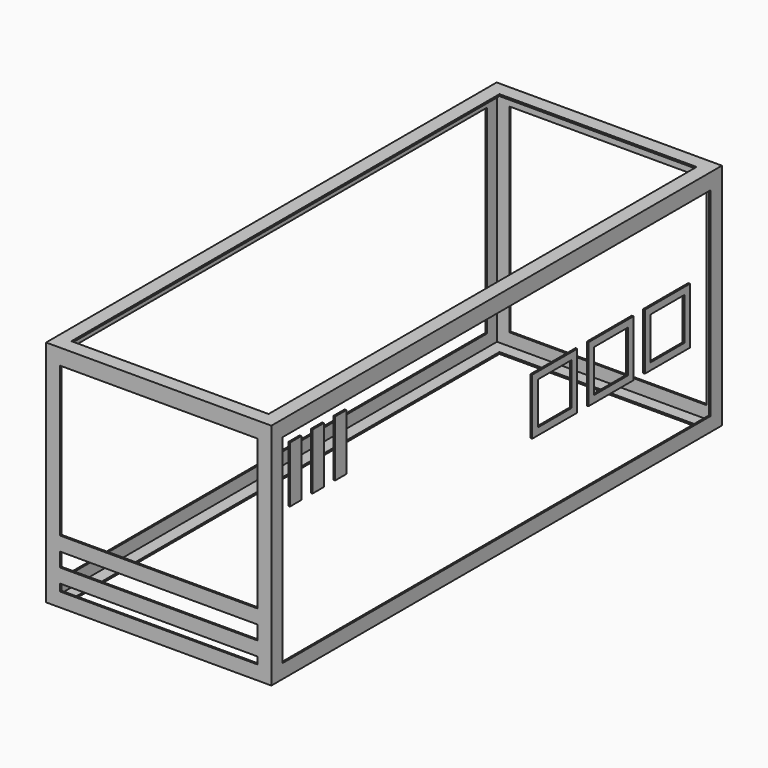
from build123d import *

# Parameters (mm, degrees)
F0_W      = 406.4
F0_H      = 1016
F0_W_2    = 355.6
F0_H_2    = 965.2
F1_DEPTH  = 3.175
F2_W      = 406.4
F2_H      = 1016
F2_W_2    = 400.05
F2_H_2    = 1009.65
F3_DEPTH  = 406.4
F4_W      = 965.2
F4_H      = 358.775
F5_DEPTH  = 406.401
F6_W      = 355.6
F6_H      = 358.775
F7_DEPTH  = 1016.001
F8_W      = 406.4
F8_H      = 1016
F8_W_2    = 400.05
F8_H_2    = 1009.65
F8_W_3    = 355.6
F8_H_3    = 965.2
F9_DEPTH  = 3.175
F10_W     = 101.6
F10_H     = 101.6
F10_W_2   = 76.2
F10_H_2   = 76.2
F11_DEPTH = 3.175
F10_W_3   = 25.4
F12_W     = 355.6
F12_H     = 25.4
F13_DEPTH = 3.175


with BuildPart() as f1:
    # F0 (on Top) → F1 (new body)
    with BuildSketch(Plane.XY):
        with Locations((203.2, -508)):
            Rectangle(F0_W, F0_H)
        with Locations((203.2, -508)):
            Rectangle(F0_W_2, F0_H_2, mode=Mode.SUBTRACT)
    extrude(amount=F1_DEPTH)

    # F2 (on face) → F3 (join)
    with BuildSketch(Plane.XY.offset(3.175)):
        with Locations((203.2, -508)):
            Rectangle(F2_W, F2_H)
        with Locations((203.2, -508)):
            Rectangle(F2_W_2, F2_H_2, mode=Mode.SUBTRACT)
    extrude(amount=F3_DEPTH)

    # F4 (on face) → F5 (cut, through all)
    with BuildSketch(Plane.YZ.offset(406.4)):
        with Locations((-508, 204.7875)):
            Rectangle(F4_W, F4_H)
    extrude(amount=-F5_DEPTH, mode=Mode.SUBTRACT)

    # F6 (on face) → F7 (cut, through all)
    with BuildSketch(Plane.XZ.offset(1016)):
        with Locations((203.2, 204.7875)):
            Rectangle(F6_W, F6_H)
    extrude(amount=-F7_DEPTH, mode=Mode.SUBTRACT)

    # F8 (on face) → F9 (join)
    with BuildSketch(Plane.XY.offset(409.575)):
        with Locations((203.2, -508)):
            Rectangle(F8_W, F8_H)
        with Locations((203.2, -508)):
            Rectangle(F8_W_2, F8_H_2, mode=Mode.SUBTRACT)
        with Locations((203.2, -508)):
            Rectangle(F8_W_2, F8_H_2)
        with Locations((203.2, -508)):
            Rectangle(F8_W_3, F8_H_3, mode=Mode.SUBTRACT)
    extrude(amount=F9_DEPTH)

    # F12 (on face) → F13 (join)
    with BuildSketch(Plane.XZ.offset(1016)):
        with Locations((203.2, 101.6)):
            Rectangle(F12_W, F12_H)
        with Locations((203.2, 50.8)):
            Rectangle(F12_W, F12_H)
    extrude(amount=-F13_DEPTH)


with BuildPart() as f11:
    # F10 (on face) → F11 (new body)
    with BuildSketch(Plane.YZ.offset(406.4)):
        with Locations((-254, 206.375)):
            Rectangle(F10_W, F10_H)
        with Locations((-254, 206.375)):
            Rectangle(F10_W_2, F10_H_2, mode=Mode.SUBTRACT)
    extrude(amount=F11_DEPTH)


with BuildPart() as f11b:
    # F10 (on face) → F11, piece 2 (new body)
    with BuildSketch(Plane.YZ.offset(406.4)):
        with Locations((-127, 206.375)):
            Rectangle(F10_W, F10_H)
        with Locations((-127, 206.375)):
            Rectangle(F10_W_2, F10_H_2, mode=Mode.SUBTRACT)
    extrude(amount=F11_DEPTH)


with BuildPart() as f11c:
    # F10 (on face) → F11, piece 3 (new body)
    with BuildSketch(Plane.YZ.offset(406.4)):
        with Locations((-381, 206.375)):
            Rectangle(F10_W, F10_H)
        with Locations((-381, 206.375)):
            Rectangle(F10_W_2, F10_H_2, mode=Mode.SUBTRACT)
    extrude(amount=F11_DEPTH)


with BuildPart() as f11d:
    # F10 (on face) → F11, piece 4 (new body)
    with BuildSketch(Plane.YZ.offset(406.4)):
        with Locations((-914.4, 320.675)):
            Rectangle(F10_W_3, F10_H)
    extrude(amount=F11_DEPTH)


with BuildPart() as f11e:
    # F10 (on face) → F11, piece 5 (new body)
    with BuildSketch(Plane.YZ.offset(406.4)):
        with Locations((-965.2, 320.675)):
            Rectangle(F10_W_3, F10_H)
    extrude(amount=F11_DEPTH)


with BuildPart() as f11f:
    # F10 (on face) → F11, piece 6 (new body)
    with BuildSketch(Plane.YZ.offset(406.4)):
        with Locations((-863.6, 320.675)):
            Rectangle(F10_W_3, F10_H)
    extrude(amount=F11_DEPTH)


solid = Compound([f1.part, f11.part, f11b.part, f11c.part, f11d.part, f11e.part, f11f.part])
